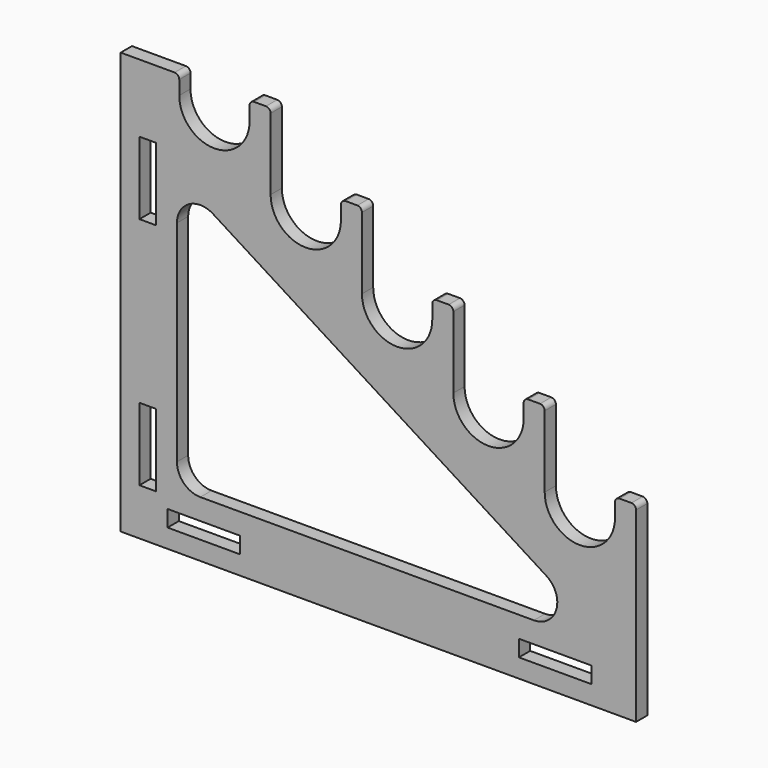
from build123d import *

# Parameters (mm, degrees)
F1_DEPTH = 3
F2_R     = 1
F3_W     = 15.5
F3_H     = 3.5
F3_W_2   = 3.5
F3_H_2   = 15.5
F4_DEPTH = 25


with BuildPart() as f1:
    # F0 (on Front) → F1 (new body)
    with BuildSketch(Plane.XZ):
        with BuildLine():
            Line((0, 90), (0, 0))
            Line((0, 0), (110, 0))
            Line((110, 0), (110, 40.821911))
            Line((110, 40.821911), (105.5, 40.821911))
            Line((105.5, 40.821911), (105.5, 36.821911))
            ThreePointArc((105.5, 36.821911), (98, 29.321911), (90.5, 36.821911))
            Line((90.5, 36.821911), (90.5, 53.116433))
            Line((90.5, 53.116433), (86, 53.116433))
            Line((86, 53.116433), (86, 49.116433))
            ThreePointArc((86, 49.116433), (78.5, 41.616433), (71, 49.116433))
            Line((71, 49.116433), (71, 65.410955))
            Line((71, 65.410955), (66.5, 65.410955))
            Line((66.5, 65.410955), (66.5, 61.410955))
            ThreePointArc((66.5, 61.410955), (59, 53.910955), (51.5, 61.410955))
            Line((51.5, 61.410955), (51.5, 77.705478))
            Line((51.5, 77.705478), (47, 77.705478))
            Line((47, 77.705478), (47, 73.705478))
            ThreePointArc((47, 73.705478), (39.5, 66.205478), (32, 73.705478))
            Line((32, 73.705478), (32, 90))
            Line((32, 90), (27.5, 90))
            Line((27.5, 90), (27.5, 86))
            ThreePointArc((27.5, 86), (20, 78.5), (12.5, 86))
            Line((12.5, 86), (12.5, 90))
            Line((12.5, 90), (0, 90))
        make_face()
        with BuildLine():
            ThreePointArc((17, 12), (13.464466, 13.464466), (12, 17))
            Line((12, 17), (12, 61.883822))
            ThreePointArc((12, 61.883822), (14.584771, 66.261797), (19.666667, 66.113347))
            Line((19.666667, 66.113347), (90.855648, 21.229526))
            ThreePointArc((90.855648, 21.229526), (92.992502, 15.612129), (88.188981, 12))
            Line((88.188981, 12), (17, 12))
        make_face(mode=Mode.SUBTRACT)
    extrude(amount=F1_DEPTH)

    # F2
    f2_edges = [f1.edges().sort_by_distance(p)[0] for p in [
        (12.5, -1.5, 90),
        (27.5, -1.5, 90),
        (32, -1.5, 90),
        (47, -1.5, 77.705478),
        (51.5, -1.5, 77.705478),
        (66.5, -1.5, 65.410955),
        (71, -1.5, 65.410955),
        (110, -1.5, 40.821911),
        (105.5, -1.5, 40.821911),
        (90.5, -1.5, 53.116433),
        (86, -1.5, 53.116433),
    ]]
    fillet(f2_edges, radius=F2_R)

    # F3 (on face) → F4 (cut)
    with BuildSketch(Plane.XZ.offset(3)):
        with Locations((17.75, 5.75)):
            Rectangle(F3_W, F3_H)
        with Locations((92.75, 5.75)):
            Rectangle(F3_W, F3_H)
        with Locations((5.75, 17.75)):
            Rectangle(F3_W_2, F3_H_2)
        with Locations((5.75, 67.75)):
            Rectangle(F3_W_2, F3_H_2)
    extrude(amount=-F4_DEPTH, mode=Mode.SUBTRACT)


solid = f1.part
